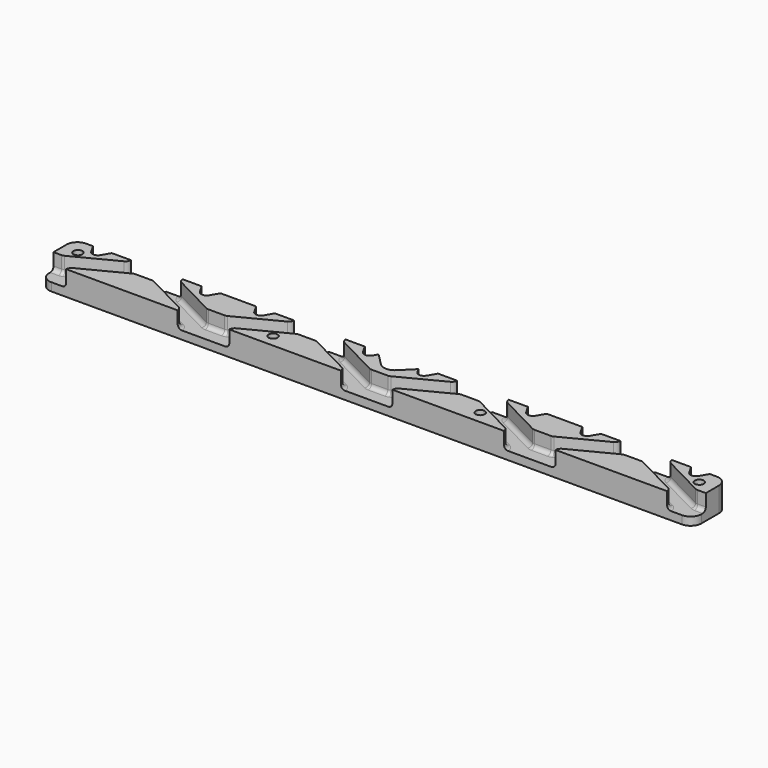
from build123d import *

# Parameters (mm, degrees)
SKETCH_W                           = 120
SKETCH_H                           = 16
PAD_DEPTH                          = 3
PAD001_DEPTH                       = 6
PAD001_MIRRORED_2_DEPTH            = 6
LINEARPATTERN_COUNT                = 2
LINEARPATTERN_PITCH                = 60
SKETCH002_R                        = 1.65
POCKET_DEPTH                       = 251.793092
PAD001_MIRRORED002_2_DEPTH         = 6
LINEARPATTERN001_COUNT             = 2
LINEARPATTERN001_PITCH             = 60
LINEARPATTERN002_COUNT             = 2
LINEARPATTERN002_PITCH             = 120
FILLET_R                           = 1.5
FILLET001_R                        = 4
POCKET001_DEPTH                    = 490.403119
POCKET001_LINEARPATTERN003_2_DEPTH = 490.403119
POCKET001_LINEARPATTERN003_3_DEPTH = 490.403119
POCKET001_LINEARPATTERN003_4_DEPTH = 490.403119
POCKET001_LINEARPATTERN003_5_DEPTH = 490.403119
POCKET001_LINEARPATTERN003_6_DEPTH = 490.403119


with BuildPart() as part:
    # Sketch → Pad (new body)
    with BuildSketch(Plane.XY):
        with Locations((60, 0)):
            Rectangle(SKETCH_W, SKETCH_H)
    pad = extrude(amount=PAD_DEPTH)

    # Sketch001 (on Face6 of Pad) → Pad001 (join)
    with BuildSketch(Plane.XY.offset(3)):
        with BuildLine():
            Line((0, 8), (0, -2))
            Line((0, -2), (3, -2))
            ThreePointArc((3, -2), (3.471635, -1.943595), (3.916667, -1.777561))
            Line((3.916667, -1.777561), (19.429924, 6.222439))
            ThreePointArc((19.429924, 6.222439), (20.221083, 6.959167), (20.513258, 8))
            Line((20.513258, 8), (0, 8))
        make_face()
        with BuildLine():
            Line((10.570076, -6.222439), (26.083333, 1.777561))
            ThreePointArc((27, 2), (26.528365, 1.943595), (26.083333, 1.777561))
            Line((30, 2), (27, 2))
            Line((30, 2), (30, -8))
            Line((9.486743, -8), (30, -8))
            ThreePointArc((10.570076, -6.222439), (9.778918, -6.959167), (9.486743, -8))
        make_face()
    pad001 = extrude(amount=PAD001_DEPTH)

    # Sketch001 Mirrored 2 → Pad001 Mirrored 2 (add)
    with BuildSketch(Plane(origin=(60, 0, 3), x_dir=(-1, 0, 0), z_dir=(0, 0, -1))):
        with BuildLine():
            Line((0, 8), (0, -2))
            Line((0, -2), (3, -2))
            ThreePointArc((3, -2), (3.471635, -1.943595), (3.916667, -1.777561))
            Line((3.916667, -1.777561), (19.429924, 6.222439))
            ThreePointArc((19.429924, 6.222439), (20.221083, 6.959167), (20.513258, 8))
            Line((20.513258, 8), (0, 8))
        make_face()
        with BuildLine():
            Line((10.570076, -6.222439), (26.083333, 1.777561))
            ThreePointArc((27, 2), (26.528365, 1.943595), (26.083333, 1.777561))
            Line((30, 2), (27, 2))
            Line((30, 2), (30, -8))
            Line((9.486743, -8), (30, -8))
            ThreePointArc((10.570076, -6.222439), (9.778918, -6.959167), (9.486743, -8))
        make_face()
    pad001_mirrored_2 = extrude(amount=-PAD001_MIRRORED_2_DEPTH)

    # LinearPattern: Pad001, Pad001 Mirrored 2 ×2
    with Locations(*[(i * LINEARPATTERN_PITCH, 0, 0) for i in range(1, LINEARPATTERN_COUNT)]):
        add(pad001)
        add(pad001_mirrored_2)

    # Sketch002 (on Face45 of MultiTransform) → Pocket (cut, through all)
    with BuildSketch(Plane.XY.offset(9)):
        with Locations((38.1, -3.379734)):
            Circle(SKETCH002_R)
        with Locations((114.3, 2.142082)):
            Circle(SKETCH002_R)
        with BuildLine():
            ThreePointArc((0, 1), (1.530734, 1.304482), (2.828427, 2.171573))
            Line((9.656854, 9), (2.828427, 2.171573))
            Line((0, 9), (9.656854, 9))
            Line((0, 9), (0, 1))
        make_face()
    pocket = extrude(amount=-POCKET_DEPTH, mode=Mode.SUBTRACT)

    # Mirrored001: Pad across Sketch V_Axis
    add(pad.mirror(Plane(origin=(0, 0, 0), x_dir=(0, 0, 1), z_dir=(1, 0, 0))))

    # Sketch001 Mirrored002 2 → Pad001 Mirrored002 2 (add)
    with BuildSketch(Plane(origin=(0, 0, 3), x_dir=(-1, 0, 0), z_dir=(0, 0, -1))):
        with BuildLine():
            Line((0, 8), (0, -2))
            Line((0, -2), (3, -2))
            ThreePointArc((3, -2), (3.471635, -1.943595), (3.916667, -1.777561))
            Line((3.916667, -1.777561), (19.429924, 6.222439))
            ThreePointArc((19.429924, 6.222439), (20.221083, 6.959167), (20.513258, 8))
            Line((20.513258, 8), (0, 8))
        make_face()
        with BuildLine():
            Line((10.570076, -6.222439), (26.083333, 1.777561))
            ThreePointArc((27, 2), (26.528365, 1.943595), (26.083333, 1.777561))
            Line((30, 2), (27, 2))
            Line((30, 2), (30, -8))
            Line((9.486743, -8), (30, -8))
            ThreePointArc((10.570076, -6.222439), (9.778918, -6.959167), (9.486743, -8))
        make_face()
    pad001_mirrored002_2 = extrude(amount=-PAD001_MIRRORED002_2_DEPTH)

    # LinearPattern001: Pad001, Pad001 Mirrored002 2 ×2
    with Locations(*[(-i * LINEARPATTERN001_PITCH, 0, 0) for i in range(1, LINEARPATTERN001_COUNT)]):
        add(pad001)
        add(pad001_mirrored002_2)

    # LinearPattern002: Pad001 ×2
    with Locations(*[(-i * LINEARPATTERN002_PITCH, 0, 0) for i in range(1, LINEARPATTERN002_COUNT)]):
        add(pad001)

    # Mirrored003: Pocket across Sketch002 V_Axis
    add(pocket.mirror(Plane(origin=(0, 0, 9), x_dir=(0, 0, 1), z_dir=(1, 0, 0))), mode=Mode.SUBTRACT)

    # Fillet
    fillet_edges = [part.edges().sort_by_distance(p)[0] for p in [
        (-101.673295, -2.222439, 3),
        (-108.326704, 2.222439, 3),
        (-71.673296, 2.222439, 3),
        (-41.673295, -2.222439, 3),
        (-11.673296, 2.222439, 3),
        (18.326705, -2.222439, 3),
        (48.326704, 2.222439, 3),
        (108.326704, 2.222439, 3),
        (78.326705, -2.222439, 3),
    ]]
    fillet(fillet_edges, radius=FILLET_R)

    # Fillet001
    fillet001_edges = [part.edges().sort_by_distance(p)[0] for p in [
        (120, -8, 1.5),
        (120, 8, 1.5),
        (-120, -8, 1.5),
        (-120, 8, 1.5),
    ]]
    fillet(fillet001_edges, radius=FILLET001_R)

    # Sketch003 (on Face69 of Fillet001) → Pocket001 (cut, through all)
    with BuildSketch(Plane.XY.offset(9)):
        with BuildLine():
            ThreePointArc((8.267949, 5), (10, 4), (11.732051, 5))
            Line((11.732051, 5), (14.041452, 9))
            Line((5.958548, 9), (14.041452, 9))
            Line((8.267949, 5), (5.958548, 9))
        make_face()
    pocket001 = extrude(amount=-POCKET001_DEPTH, mode=Mode.SUBTRACT)

    # Sketch003 LinearPattern003 2 → Pocket001 LinearPattern003 2 (cut, through all)
    with BuildSketch(Plane(origin=(20, 0, 9), x_dir=(1, 0, 0), z_dir=(0, 0, 1))):
        with BuildLine():
            ThreePointArc((8.267949, 5), (10, 4), (11.732051, 5))
            Line((11.732051, 5), (14.041452, 9))
            Line((5.958548, 9), (14.041452, 9))
            Line((8.267949, 5), (5.958548, 9))
        make_face()
    pocket001_linearpattern003_2 = extrude(amount=-POCKET001_LINEARPATTERN003_2_DEPTH, mode=Mode.SUBTRACT)

    # Sketch003 LinearPattern003 3 → Pocket001 LinearPattern003 3 (cut, through all)
    with BuildSketch(Plane(origin=(40, 0, 9), x_dir=(1, 0, 0), z_dir=(0, 0, 1))):
        with BuildLine():
            ThreePointArc((8.267949, 5), (10, 4), (11.732051, 5))
            Line((11.732051, 5), (14.041452, 9))
            Line((5.958548, 9), (14.041452, 9))
            Line((8.267949, 5), (5.958548, 9))
        make_face()
    pocket001_linearpattern003_3 = extrude(amount=-POCKET001_LINEARPATTERN003_3_DEPTH, mode=Mode.SUBTRACT)

    # Sketch003 LinearPattern003 4 → Pocket001 LinearPattern003 4 (cut, through all)
    with BuildSketch(Plane(origin=(60, 0, 9), x_dir=(1, 0, 0), z_dir=(0, 0, 1))):
        with BuildLine():
            ThreePointArc((8.267949, 5), (10, 4), (11.732051, 5))
            Line((11.732051, 5), (14.041452, 9))
            Line((5.958548, 9), (14.041452, 9))
            Line((8.267949, 5), (5.958548, 9))
        make_face()
    pocket001_linearpattern003_4 = extrude(amount=-POCKET001_LINEARPATTERN003_4_DEPTH, mode=Mode.SUBTRACT)

    # Sketch003 LinearPattern003 5 → Pocket001 LinearPattern003 5 (cut, through all)
    with BuildSketch(Plane(origin=(80, 0, 9), x_dir=(1, 0, 0), z_dir=(0, 0, 1))):
        with BuildLine():
            ThreePointArc((8.267949, 5), (10, 4), (11.732051, 5))
            Line((11.732051, 5), (14.041452, 9))
            Line((5.958548, 9), (14.041452, 9))
            Line((8.267949, 5), (5.958548, 9))
        make_face()
    pocket001_linearpattern003_5 = extrude(amount=-POCKET001_LINEARPATTERN003_5_DEPTH, mode=Mode.SUBTRACT)

    # Sketch003 LinearPattern003 6 → Pocket001 LinearPattern003 6 (cut, through all)
    with BuildSketch(Plane(origin=(100, 0, 9), x_dir=(1, 0, 0), z_dir=(0, 0, 1))):
        with BuildLine():
            ThreePointArc((8.267949, 5), (10, 4), (11.732051, 5))
            Line((11.732051, 5), (14.041452, 9))
            Line((5.958548, 9), (14.041452, 9))
            Line((8.267949, 5), (5.958548, 9))
        make_face()
    pocket001_linearpattern003_6 = extrude(amount=-POCKET001_LINEARPATTERN003_6_DEPTH, mode=Mode.SUBTRACT)

    # Mirrored004: Pocket001, Pocket001 LinearPattern003 2, Pocket001 LinearPattern003 3, Pocket001 LinearPattern003 4, Pocket001 LinearPattern003 5, Pocket001 LinearPattern003 6 across Sketch003 V_Axis
    add(pocket001.mirror(Plane(origin=(0, 0, 9), x_dir=(0, 0, 1), z_dir=(1, 0, 0))), mode=Mode.SUBTRACT)
    add(pocket001_linearpattern003_2.mirror(Plane(origin=(0, 0, 9), x_dir=(0, 0, 1), z_dir=(1, 0, 0))), mode=Mode.SUBTRACT)
    add(pocket001_linearpattern003_3.mirror(Plane(origin=(0, 0, 9), x_dir=(0, 0, 1), z_dir=(1, 0, 0))), mode=Mode.SUBTRACT)
    add(pocket001_linearpattern003_4.mirror(Plane(origin=(0, 0, 9), x_dir=(0, 0, 1), z_dir=(1, 0, 0))), mode=Mode.SUBTRACT)
    add(pocket001_linearpattern003_5.mirror(Plane(origin=(0, 0, 9), x_dir=(0, 0, 1), z_dir=(1, 0, 0))), mode=Mode.SUBTRACT)
    add(pocket001_linearpattern003_6.mirror(Plane(origin=(0, 0, 9), x_dir=(0, 0, 1), z_dir=(1, 0, 0))), mode=Mode.SUBTRACT)


solid = part.part
